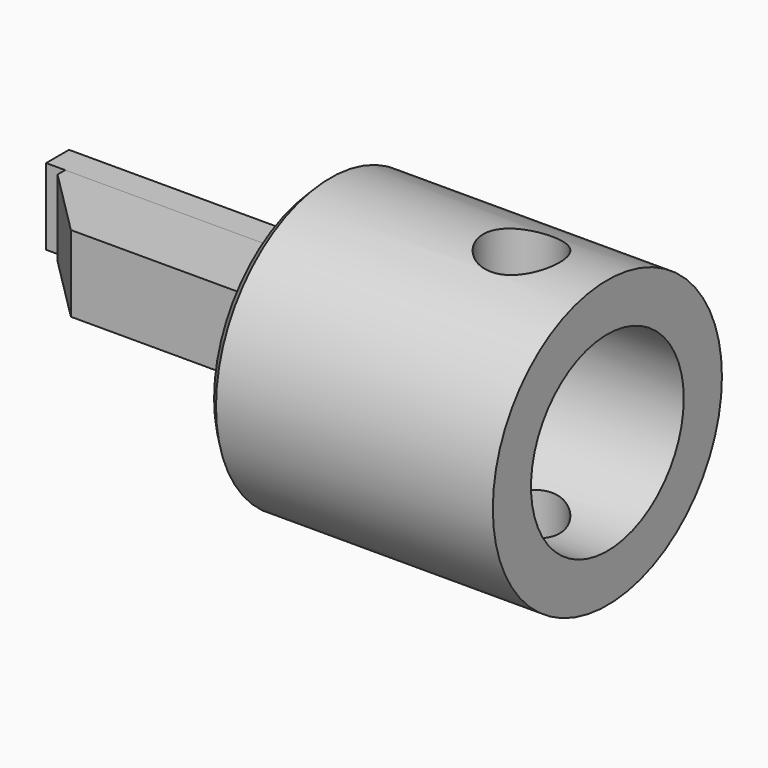
from build123d import *

# Parameters (mm, degrees)
F0_R           = 15
F1_DEPTH       = 30
F2_R           = 10
F3_DEPTH       = 21.5
F5_R           = 4
F6_DEPTH       = 30.001
F7_W           = 8
F7_H           = 8
F8_DEPTH       = 30
F10_DEPTH      = 4
F10_DEPTH_BACK = 4
F11_SIZE       = 1
F12_W          = 32
F12_H          = 8
F13_DEPTH      = 3


with BuildPart() as f1:
    # F0 (on Right) → F1 (new body)
    with BuildSketch(Plane.YZ):
        Circle(F0_R)
    extrude(amount=F1_DEPTH)

    # F2 (on face) → F3 (cut)
    with BuildSketch(Plane.YZ.offset(30)):
        Circle(F2_R)
    extrude(amount=-F3_DEPTH, mode=Mode.SUBTRACT)

    # F5 (on offset) → F6 (cut, through all)
    with BuildSketch(Plane.XY.offset(15)):
        with Locations((21, 0)):
            Circle(F5_R)
    extrude(amount=-F6_DEPTH, mode=Mode.SUBTRACT)

    # F7 (on Right) → F8 (join)
    with BuildSketch(Plane.YZ):
        Rectangle(F7_W, F7_H)
    extrude(amount=-F8_DEPTH)

    # F9 (on Top) → F10 (cut, two sides)
    with BuildSketch(Plane.XY) as f10_sk:
        Polygon((-23, -4), (-30, 3), (-30, -4), align=None)
    extrude(amount=-F10_DEPTH, mode=Mode.SUBTRACT)
    extrude(f10_sk.sketch, amount=F10_DEPTH_BACK, mode=Mode.SUBTRACT)

    # F11
    f11_edges = [f1.edges().sort_by_distance(p)[0] for p in [
        (0, -15, 0),
    ]]
    chamfer(f11_edges, length=F11_SIZE)


with BuildPart() as f13:
    # F12 (on face) → F13 (new body)
    with BuildSketch(Plane(origin=(0, 4, 0), x_dir=(-1, 0, 0), z_dir=(0, 1, 0))):
        with Locations((16, 0)):
            Rectangle(F12_W, F12_H)
    extrude(amount=F13_DEPTH)


solid = Compound([f1.part, f13.part])
